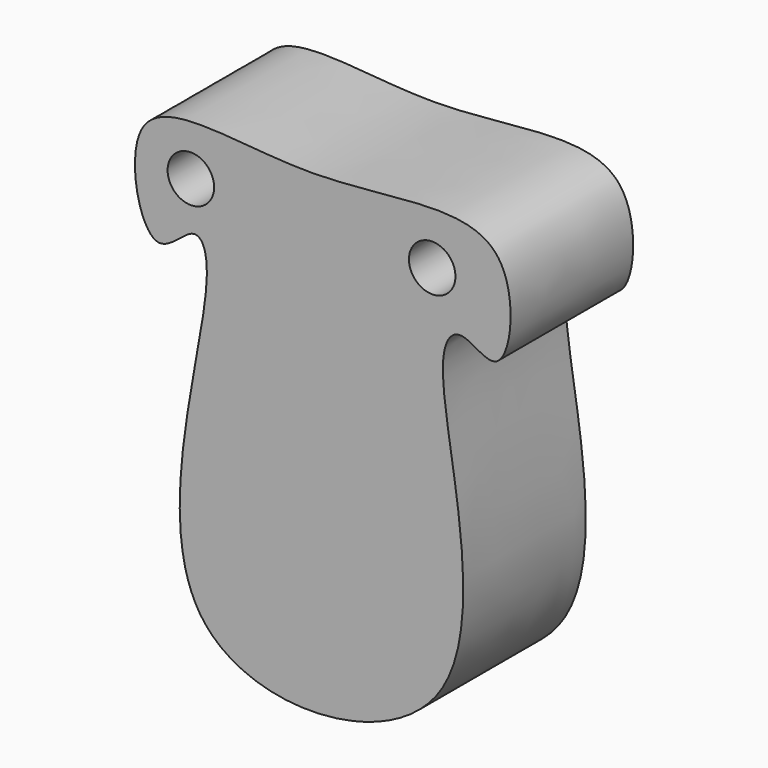
from build123d import *

# Parameters (mm, degrees)
F1_DEPTH = 25.4
F2_R     = 3.8552070455
F3_DEPTH = 25.4


with BuildPart() as f1:
    # F0 (on Front) → F1 (new body)
    with BuildSketch(Plane.XZ):
        with BuildLine():
            add(Edge.make_bspline(
                [(0, 56.4004927874), (12.9513470103, 56.4476232034), (35.483183776, 63.3222548831), (32.6956909361, 34.242900302), (24.5240628547, 42.705470779), (18.2779847082, 34.2742080669), (37.9203335619, -22.7944549297), (-35.2767660942, -26.9856362971), (-14.4307310077, 33.6600684142), (-19.2354647919, 43.6185108747), (-27.2582836419, 32.4772222117), (-33.566681413, 62.6343399082), (-12.355559789, 56.3555304624), (0, 56.4004927874)],
                knots=[0, 0, 0, 0, 0.1135977048, 0.1935608092, 0.243302228, 0.2932720909, 0.4353739792, 0.5625691115, 0.7078832367, 0.7577392767, 0.8101479815, 0.8916280111, 1, 1, 1, 1], degree=3))
        make_face()
    extrude(amount=F1_DEPTH)

    # F2 (on face) → F3 (cut)
    with BuildSketch(Plane(origin=(0, 0, 0), x_dir=(-1, 0, 0), z_dir=(0, 1, 0))):
        with Locations((20.0043171644, 49.0131229162)):
            Circle(F2_R)
        with Locations((-20.0043171644, 49.0131229162)):
            Circle(F2_R)
    extrude(amount=-F3_DEPTH, mode=Mode.SUBTRACT)


solid = f1.part
